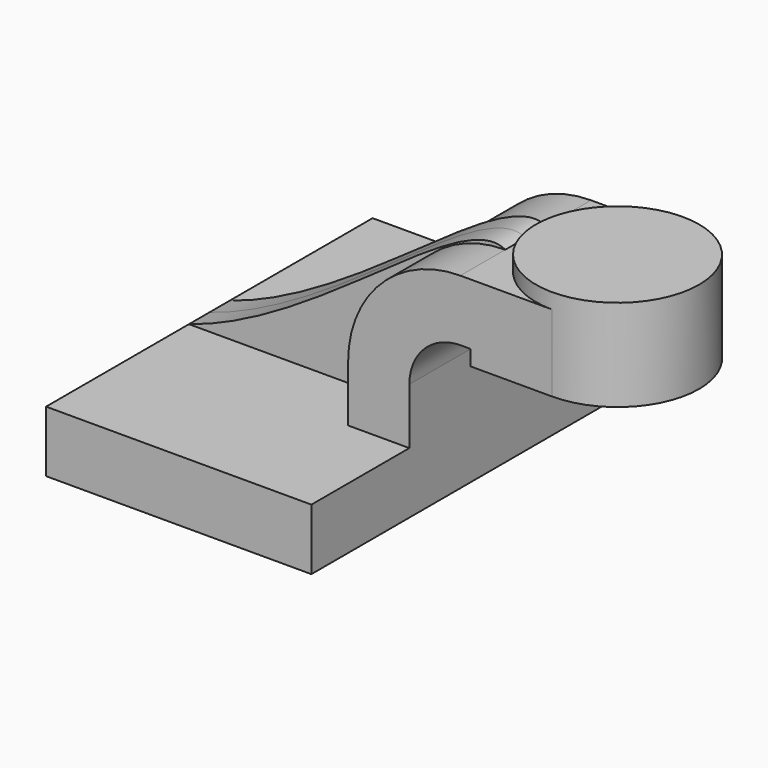
from build123d import *

# Parameters (mm, degrees)
F1_DEPTH = 63.5
F2_DEPTH = 25.4
F3_DEPTH = 7.9375


with BuildPart() as f1:
    # F0 (on Front) → F1 (new body, symmetric)
    with BuildSketch(Plane.XZ):
        Polygon((-41.275, 9.525), (-41.275, -9.525), (41.275, -9.525), (41.275, 9.525), (22.225, 9.525), align=None)
    extrude(amount=F1_DEPTH, both=True)

    # F0 (on Front) → F2 (join, symmetric)
    with BuildSketch(Plane.XZ):
        with BuildLine():
            Line((22.225, 9.525), (41.275, 9.525))
            Line((41.275, 9.525), (41.275, 27.0002))
            ThreePointArc((41.275, 27.0002), (45.92468, 38.22552), (57.15, 42.8752))
            Line((57.15, 42.8752), (60.325, 42.8752))
            Line((60.325, 42.8752), (60.325, 61.9252))
            Line((60.325, 61.9252), (57.15, 61.9252))
            ThreePointArc((57.15, 61.9252), (32.454296, 51.695904), (22.225, 27.0002))
            Line((22.225, 27.0002), (22.225, 9.525))
        make_face()
        Polygon((85.725, 61.9252), (60.325, 61.9252), (60.325, 42.8752), (60.325, 38.1), (85.725, 38.1), align=None)
    extrude(amount=F2_DEPTH, both=True)

    # F0 (on Front) → F3 (join, symmetric)
    with BuildSketch(Plane.XZ):
        with BuildLine():
            add(Edge.make_bspline(
                [(-41.275, 9.525), (0, 22.249181), (43.333913, 69.793309), (57.15, 61.9252)],
                knots=[0, 0, 0, 0, 111.504536, 111.504536, 111.504536, 111.504536], degree=3))
            Line((-41.275, 9.525), (22.225, 9.525))
            Line((22.225, 9.525), (22.225, 27.0002))
            ThreePointArc((22.225, 27.0002), (32.454296, 51.695904), (57.15, 61.9252))
        make_face()
    extrude(amount=F3_DEPTH, both=True)

    # F0 (on Front) → F4 (revolve)
    with BuildSketch(Plane.XZ):
        Polygon((85.725, 66.675), (85.725, 61.9252), (85.725, 38.1), (111.125, 38.1), (111.125, 66.675), align=None)
    revolve(axis=Axis((85.725, 0, 52.3875), (0, 0, 1)))


solid = f1.part
